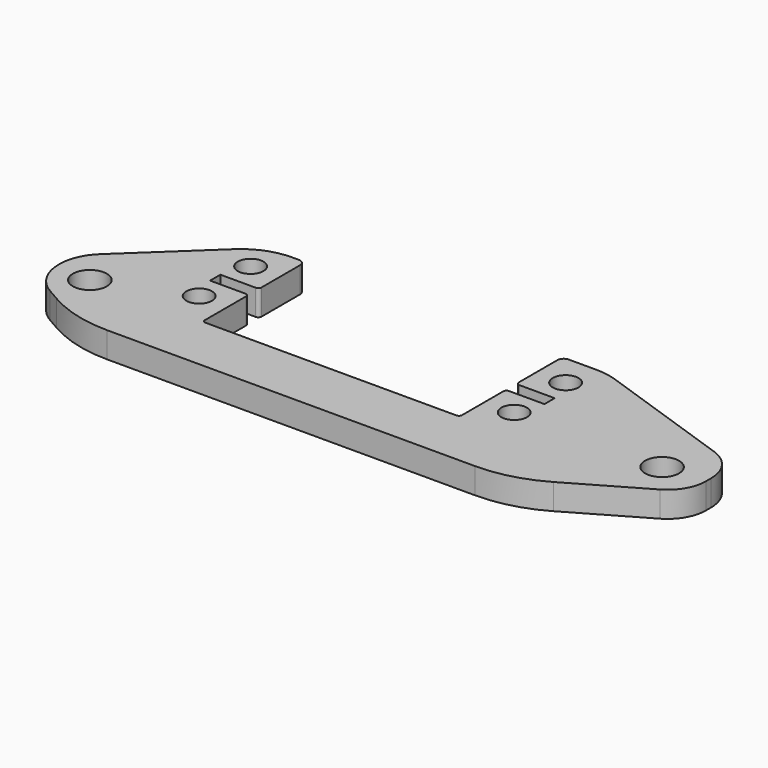
from build123d import *

# Parameters (mm, degrees)
SKETCH005_R   = 2
SKETCH005_R_2 = 2.65
PAD_DEPTH     = 4
FILLET_R      = 7
FILLET001_R   = 20
FILLET002_R   = 6
FILLET003_R   = 10
FILLET004_R   = 1
FILLET005_R   = 0.5
FILLET006_R   = 0.5


with BuildPart() as part:
    # Sketch005 → Pad (new body)
    with BuildSketch(Plane.XY.offset(-3)):
        Polygon((-33, 10), (-27, 10), (-27, 1), (-33, 1), (-33, -1), (-27, -1), (-27, -10), (13, -10), (13, -1), (19, -1), (19, 1), (13, 1), (13, 10), (20, 10), (47, 0.7), (47, -8.030345), (28, -19), (-40, -19), (-50, -13.226497), (-50, -6), align=None)
        with Locations((-31.5, 5)):
            Circle(SKETCH005_R, mode=Mode.SUBTRACT)
        with Locations((-31.5, -5)):
            Circle(SKETCH005_R, mode=Mode.SUBTRACT)
        with Locations((17.5, 5)):
            Circle(SKETCH005_R, mode=Mode.SUBTRACT)
        with Locations((17.5, -5)):
            Circle(SKETCH005_R, mode=Mode.SUBTRACT)
        with Locations((40.5, -5)):
            Circle(SKETCH005_R_2, mode=Mode.SUBTRACT)
        with Locations((-44.5, -10)):
            Circle(SKETCH005_R_2, mode=Mode.SUBTRACT)
    extrude(amount=PAD_DEPTH)

    # Fillet
    fillet_edges = [part.edges().sort_by_distance(p)[0] for p in [
        (-50, -13.226497, -1),
        (-50, -6, -1),
    ]]
    fillet(fillet_edges, radius=FILLET_R)

    # Fillet001
    fillet001_edges = [part.edges().sort_by_distance(p)[0] for p in [
        (-40, -19, -1),
        (28, -19, -1),
    ]]
    fillet(fillet001_edges, radius=FILLET001_R)

    # Fillet002
    fillet002_edges = [part.edges().sort_by_distance(p)[0] for p in [
        (47, -8.030345, -1),
        (47, 0.7, -1),
    ]]
    fillet(fillet002_edges, radius=FILLET002_R)

    # Fillet003
    fillet003_edges = [part.edges().sort_by_distance(p)[0] for p in [
        (-33, 10, -1),
        (20, 10, -1),
    ]]
    fillet(fillet003_edges, radius=FILLET003_R)

    # Fillet004
    fillet004_edges = [part.edges().sort_by_distance(p)[0] for p in [
        (13, 10, -1),
        (-27, 10, -1),
    ]]
    fillet(fillet004_edges, radius=FILLET004_R)

    # Fillet005
    fillet005_edges = [part.edges().sort_by_distance(p)[0] for p in [
        (13, -10, -1),
        (-27, -10, -1),
    ]]
    fillet(fillet005_edges, radius=FILLET005_R)

    # Fillet006
    fillet006_edges = [part.edges().sort_by_distance(p)[0] for p in [
        (-27, -1, -1),
        (-27, 1, -1),
        (13, -1, -1),
        (13, 1, -1),
    ]]
    fillet(fillet006_edges, radius=FILLET006_R)


solid = part.part
